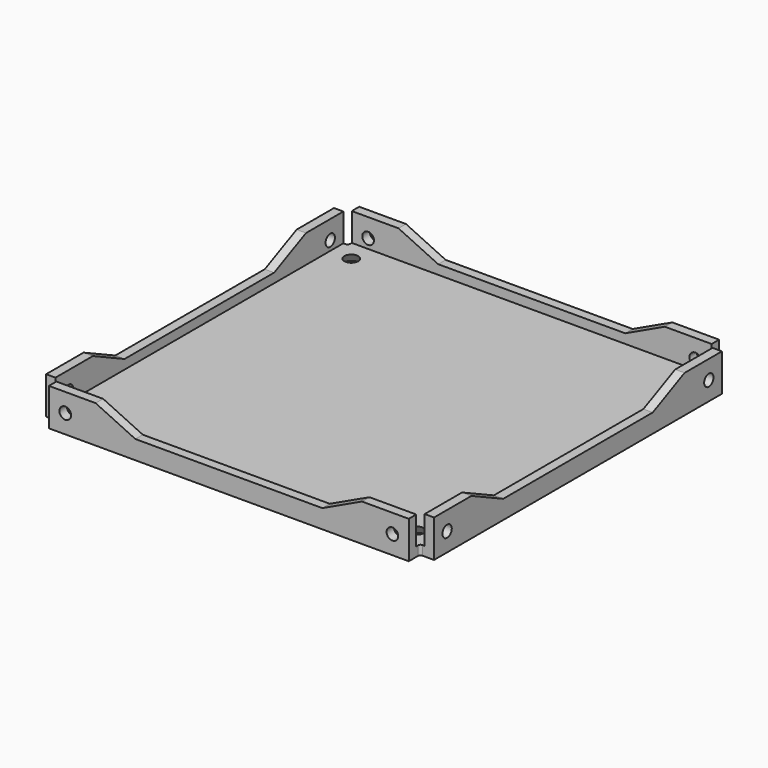
from build123d import *

# Parameters (mm, degrees)
PAD004_DEPTH    = 2
SKETCH016_R     = 1.25
POCKET003_DEPTH = 2.001
PAD002_DEPTH    = 2
SKETCH015_R     = 1.25
POCKET002_DEPTH = 2.001
PAD001_DEPTH    = 2
SKETCH017_R     = 1.25
POCKET_DEPTH    = 2.001
SKETCH007_R     = 3
SKETCH008_R     = 1.5
SKETCH005_R     = 3
SKETCH006_R     = 1.5
SKETCH003_R     = 3
SKETCH004_R     = 1.5
SKETCH001_R     = 3
SKETCH002_R     = 1.5
PAD_DEPTH       = 2
PAD003_DEPTH    = 2
SKETCH014_R     = 1.25
POCKET001_DEPTH = 2.001


with BuildPart() as pocket003:
    # Sketch010 → Pad004 (new body)
    with BuildSketch(Plane.XZ.offset(-41.5)):
        Polygon((-38.5, 0), (38.5, 0), (38.5, 8), (28.5, 8), (20, 4), (-20, 4), (-28.5, 8), (-38.5, 8), align=None)
    extrude(amount=PAD004_DEPTH)

    # Sketch016 → Pocket003 (cut, through all)
    with BuildSketch(Plane.XZ.offset(-39.5)):
        with Locations((-35, 4)):
            Circle(SKETCH016_R)
        with Locations((35, 4)):
            Circle(SKETCH016_R)
    extrude(amount=-POCKET003_DEPTH, mode=Mode.SUBTRACT)


with BuildPart() as pocket002:
    # Sketch012 → Pad002 (new body)
    with BuildSketch(Plane.YZ.offset(-41.5)):
        Polygon((-38.5, 0), (38.5, 0), (38.5, 8), (28.5, 8), (20, 4), (-20, 4), (-28.5, 8), (-38.5, 8), align=None)
    extrude(amount=PAD002_DEPTH)

    # Sketch015 → Pocket002 (cut, through all)
    with BuildSketch(Plane.YZ.offset(-39.5)):
        with Locations((-35, 4)):
            Circle(SKETCH015_R)
        with Locations((35, 4)):
            Circle(SKETCH015_R)
    extrude(amount=-POCKET002_DEPTH, mode=Mode.SUBTRACT)


with BuildPart() as pocket:
    # Sketch009 → Pad001 (new body)
    with BuildSketch(Plane.XZ.offset(39.5)):
        Polygon((-38.5, 0), (38.5, 0), (38.5, 8), (28.5, 8), (20, 4), (-20, 4), (-28.5, 7.999908), (-38.5, 7.999908), (-38.5, 8), align=None)
    extrude(amount=PAD001_DEPTH)

    # Sketch017 → Pocket (cut, through all)
    with BuildSketch(Plane.XZ.offset(41.5)):
        with Locations((-35, 4)):
            Circle(SKETCH017_R)
        with Locations((35, 4)):
            Circle(SKETCH017_R)
    extrude(amount=-POCKET_DEPTH, mode=Mode.SUBTRACT)


with BuildPart() as loft003:
    # Sketch007 → Loft003 section 0
    with BuildSketch(Plane.XY):
        with Locations((35, 35)):
            Circle(SKETCH007_R)
    # Sketch008 → Loft003 section 1
    with BuildSketch(Plane.XY.offset(2)):
        with Locations((35, 35)):
            Circle(SKETCH008_R)
    loft(ruled=True)


with BuildPart() as loft002:
    # Sketch005 → Loft002 section 0
    with BuildSketch(Plane.XY):
        with Locations((-35, 35)):
            Circle(SKETCH005_R)
    # Sketch006 → Loft002 section 1
    with BuildSketch(Plane.XY.offset(2)):
        with Locations((-35, 35)):
            Circle(SKETCH006_R)
    loft(ruled=True)


with BuildPart() as loft001:
    # Sketch003 → Loft001 section 0
    with BuildSketch(Plane.XY):
        with Locations((35, -35)):
            Circle(SKETCH003_R)
    # Sketch004 → Loft001 section 1
    with BuildSketch(Plane.XY.offset(2)):
        with Locations((35, -35)):
            Circle(SKETCH004_R)
    loft(ruled=True)


with BuildPart() as loft_body:
    # Sketch001 → Loft section 0
    with BuildSketch(Plane.XY):
        with Locations((-35, -35)):
            Circle(SKETCH001_R)
    # Sketch002 → Loft section 1
    with BuildSketch(Plane.XY.offset(2)):
        with Locations((-35, -35)):
            Circle(SKETCH002_R)
    loft(ruled=True)


with BuildPart() as fusion002:
    # Sketch → Pad (new body)
    with BuildSketch(Plane.XY):
        with BuildLine():
            Line((-41.5, -38.5), (-41.5, 38.5))
            Line((-38.99866, 38.5), (-41.5, 38.5))
            ThreePointArc((-38.99866, 38.5), (-38.645973, 38.646919), (-38.5, 38.999998))
            Line((-38.5, 38.999998), (-38.5, 41.5))
            Line((-38.5, 41.5), (38.5, 41.5))
            Line((38.5, 41.5), (38.5, 38.999998))
            ThreePointArc((38.5, 38.999998), (38.645973, 38.646919), (38.99866, 38.5))
            Line((38.99866, 38.5), (41.5, 38.5))
            Line((41.5, 38.5), (41.5, -38.5))
            Line((39, -38.5), (41.5, -38.5))
            ThreePointArc((39, -38.5), (38.646447, -38.646447), (38.5, -39))
            Line((38.5, -39), (38.5, -41.5))
            Line((-38.5, -41.5), (38.5, -41.5))
            Line((-38.5, -38.998755), (-38.5, -41.5))
            ThreePointArc((-38.5, -38.998755), (-38.633612, -38.658406), (-38.963153, -38.5))
            Line((-38.963153, -38.5), (-41.5, -38.5))
        make_face()
    extrude(amount=PAD_DEPTH)

    # Cut: cut Loft body
    add(loft_body.part, mode=Mode.SUBTRACT)

    # Cut001: cut Loft001
    add(loft001.part, mode=Mode.SUBTRACT)

    # Cut002: cut Loft002
    add(loft002.part, mode=Mode.SUBTRACT)

    # Cut003: cut Loft003
    add(loft003.part, mode=Mode.SUBTRACT)

    # Fusion: union Pocket
    add(pocket.part)

    # Fusion001: union Pocket002
    add(pocket002.part)

    # Fusion002: union Pocket003
    add(pocket003.part)


with BuildPart() as fusion003:
    # Sketch011 → Pad003 (new body)
    with BuildSketch(Plane.YZ.offset(39.5)):
        Polygon((-38.5, 0), (38.5, 0), (38.5, 8), (28.5, 8), (20, 4), (-20, 4), (-28.5, 8), (-38.5, 8), align=None)
    extrude(amount=PAD003_DEPTH)

    # Sketch014 → Pocket001 (cut, through all)
    with BuildSketch(Plane.YZ.offset(41.5)):
        with Locations((-35, 4)):
            Circle(SKETCH014_R)
        with Locations((35, 4)):
            Circle(SKETCH014_R)
    extrude(amount=-POCKET001_DEPTH, mode=Mode.SUBTRACT)

    # Fusion003: union Fusion002
    add(fusion002.part)


solid = fusion003.part
